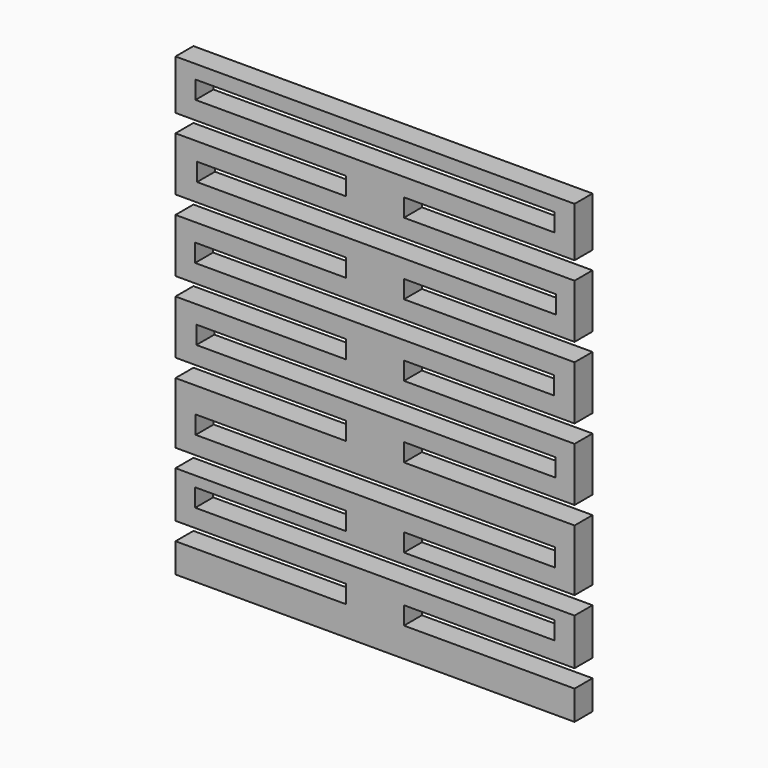
from build123d import *

# Parameters (mm, degrees)
F0_W      = 39.178138
F0_H      = 3.5
F0_W_2    = 40.821862
F1_DEPTH  = 5
F2_W      = 80
F2_H      = 4
F2_W_2    = 33.202673
F3_DEPTH  = 12
F4_W      = 7.437948
F4_H      = 4
F5_DEPTH  = 12
F6_W      = 38
F6_H      = 4
F7_DEPTH  = 12
F8_W      = 38
F8_H      = 4
F9_DEPTH  = 12
F10_W     = 38
F10_H     = 4
F11_DEPTH = 12
F12_W     = 38
F12_H     = 4
F13_DEPTH = 12
F14_W     = 38
F14_H     = 4
F15_DEPTH = 12
F16_W     = 38
F16_H     = 4
F17_DEPTH = 12
F18_W     = 38
F18_H     = 4
F19_DEPTH = 12
F20_W     = 80
F20_H     = 4
F21_DEPTH = 12
F22_W     = 38
F22_H     = 4
F23_DEPTH = 12
F24_W     = 38
F24_H     = 4
F25_DEPTH = 12
F26_W     = 38
F26_H     = 4
F27_DEPTH = 25
F28_W     = 38
F28_H     = 4
F29_DEPTH = 25


with BuildPart() as f1:
    # F0 (on Front) → F1 (new body)
    with BuildSketch(Plane.XZ):
        Polygon((0.805769, 45.985782), (-43.644231, 45.985782), (-43.644231, -55.614218), (0.805769, -55.614218), (0.805769, 37.953567), (-38.372369, 37.953567), (-38.372369, 41.453567), (0.805769, 41.453567), align=None)
        Polygon((45.255769, 45.985782), (0.805769, 45.985782), (0.805769, 41.453567), (41.627631, 41.453567), (41.627631, 37.953567), (0.805769, 37.953567), (0.805769, -55.614218), (45.255769, -55.614218), align=None)
        with Locations((-18.7833, 39.703567)):
            Rectangle(F0_W, F0_H)
        with Locations((21.2167, 39.703567)):
            Rectangle(F0_W_2, F0_H)
    extrude(amount=F1_DEPTH)

    # F2 (on face) → F3 (cut)
    with BuildSketch(Plane.XZ.offset(5)):
        with Locations((0.72034, 8.914189)):
            Rectangle(F2_W, F2_H)
        with Locations((1.153096, 24.914189)):
            Rectangle(F2_W, F2_H)
        with Locations((0.755769, -39.085811)):
            Rectangle(F2_W, F2_H)
        with Locations((0.805769, 40.914189)):
            Rectangle(F2_W, F2_H)
        with Locations((1.011494, -7.085811)):
            Rectangle(F2_W, F2_H)
        with Locations((-22.245567, 32.914189)):
            Rectangle(F2_W_2, F2_H)
    extrude(amount=-F3_DEPTH, mode=Mode.SUBTRACT)

    # F4 (on face) → F5 (cut)
    with BuildSketch(Plane.XZ.offset(5)):
        with Locations((-39.925257, 32.914189)):
            Rectangle(F4_W, F4_H)
    extrude(amount=-F5_DEPTH, mode=Mode.SUBTRACT)

    # F6 (on face) → F7 (cut)
    with BuildSketch(Plane.XZ.offset(5)):
        with Locations((26.255769, 32.914189)):
            Rectangle(F6_W, F6_H)
    extrude(amount=-F7_DEPTH, mode=Mode.SUBTRACT)

    # F8 (on face) → F9 (cut)
    with BuildSketch(Plane.XZ.offset(5)):
        with Locations((-24.644231, 16.914189)):
            Rectangle(F8_W, F8_H)
    extrude(amount=-F9_DEPTH, mode=Mode.SUBTRACT)

    # F10 (on face) → F11 (cut)
    with BuildSketch(Plane.XZ.offset(5)):
        with Locations((26.255769, 16.914189)):
            Rectangle(F10_W, F10_H)
    extrude(amount=-F11_DEPTH, mode=Mode.SUBTRACT)

    # F12 (on face) → F13 (cut)
    with BuildSketch(Plane.XZ.offset(5)):
        with Locations((-24.644231, 0.914189)):
            Rectangle(F12_W, F12_H)
    extrude(amount=-F13_DEPTH, mode=Mode.SUBTRACT)

    # F14 (on face) → F15 (cut)
    with BuildSketch(Plane(origin=(0, 0, 0), x_dir=(-1, 0, 0), z_dir=(0, 1, 0))):
        with Locations((-26.255769, 0.914189)):
            Rectangle(F14_W, F14_H)
    extrude(amount=-F15_DEPTH, mode=Mode.SUBTRACT)

    # F16 (on face) → F17 (cut)
    with BuildSketch(Plane(origin=(0, 0, 0), x_dir=(-1, 0, 0), z_dir=(0, 1, 0))):
        with Locations((-26.255769, -15.085811)):
            Rectangle(F16_W, F16_H)
    extrude(amount=-F17_DEPTH, mode=Mode.SUBTRACT)

    # F18 (on face) → F19 (cut)
    with BuildSketch(Plane(origin=(0, 0, 0), x_dir=(-1, 0, 0), z_dir=(0, 1, 0))):
        with Locations((24.644231, -15.085811)):
            Rectangle(F18_W, F18_H)
        with Locations((24.644231, -15.085811)):
            Rectangle(F18_W, F18_H)
    extrude(amount=-F19_DEPTH, mode=Mode.SUBTRACT)

    # F20 (on face) → F21 (cut)
    with BuildSketch(Plane(origin=(0, 0, 0), x_dir=(-1, 0, 0), z_dir=(0, 1, 0))):
        with Locations((-0.855769, -24.760461)):
            Rectangle(F20_W, F20_H)
    extrude(amount=-F21_DEPTH, mode=Mode.SUBTRACT)

    # F22 (on face) → F23 (cut)
    with BuildSketch(Plane(origin=(0, 0, 0), x_dir=(-1, 0, 0), z_dir=(0, 1, 0))):
        with Locations((-26.255769, -32.760461)):
            Rectangle(F22_W, F22_H)
    extrude(amount=-F23_DEPTH, mode=Mode.SUBTRACT)

    # F24 (on face) → F25 (cut)
    with BuildSketch(Plane(origin=(0, 0, 0), x_dir=(-1, 0, 0), z_dir=(0, 1, 0))):
        with Locations((24.644231, -32.760461)):
            Rectangle(F24_W, F24_H)
    extrude(amount=-F25_DEPTH, mode=Mode.SUBTRACT)

    # F26 (on face) → F27 (cut)
    with BuildSketch(Plane.XZ.offset(5)):
        with Locations((-24.644231, -47.085811)):
            Rectangle(F26_W, F26_H)
    extrude(amount=-F27_DEPTH, mode=Mode.SUBTRACT)

    # F28 (on face) → F29 (cut)
    with BuildSketch(Plane.XZ.offset(5)):
        with Locations((26.255769, -47.085811)):
            Rectangle(F28_W, F28_H)
    extrude(amount=-F29_DEPTH, mode=Mode.SUBTRACT)


solid = f1.part
